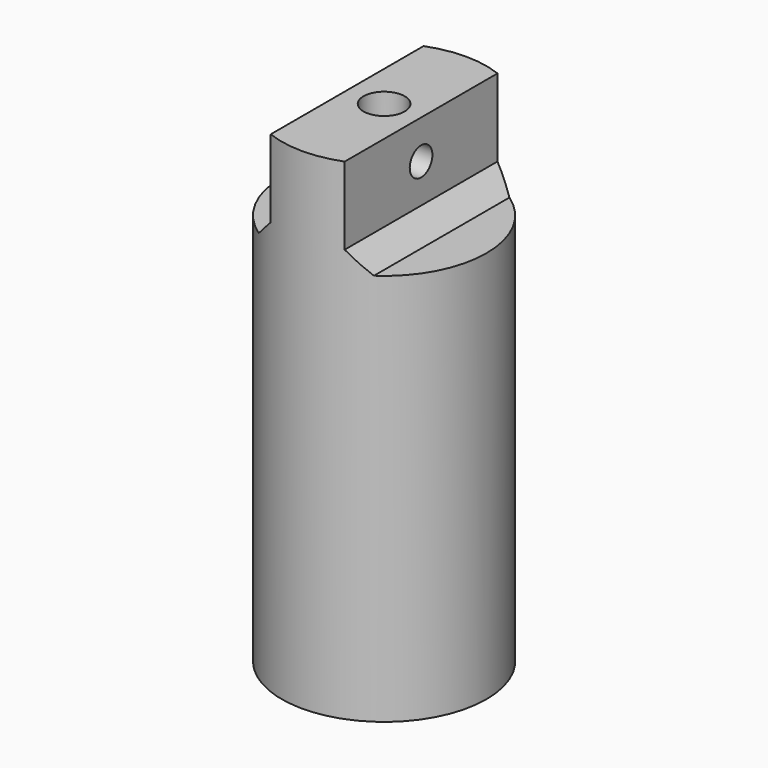
from build123d import *

# Parameters (mm, degrees)
F0_R      = 7.95
F1_DEPTH  = 38.1
F2_R      = 7.2485
F3_DEPTH  = 9.525
F4_R      = 4.7625
F5_DEPTH  = 15.24
F6_R      = 1.6
F7_DEPTH  = 25.4
F8_W      = 5.08
F8_H      = 14.827758
F9_DEPTH  = 7.62
F10_R     = 1.1
F11_DEPTH = 25.4
F12_SIZE  = 1.6


with BuildPart() as f1:
    # F0 (on Top) → F1 (new body)
    with BuildSketch(Plane.XY):
        Circle(F0_R)
    extrude(amount=F1_DEPTH)

    # F2 (on face) → F3 (cut)
    with BuildSketch(Plane(origin=(0, 0, 0), x_dir=(1, 0, 0), z_dir=(0, 0, -1))):
        Circle(F2_R)
    extrude(amount=-F3_DEPTH, mode=Mode.SUBTRACT)

    # F4 (on face) → F5 (cut)
    with BuildSketch(Plane(origin=(0, 0, 9.525), x_dir=(1, 0, 0), z_dir=(0, 0, -1))):
        Circle(F4_R)
    extrude(amount=-F5_DEPTH, mode=Mode.SUBTRACT)

    # F6 (on face) → F7 (cut)
    with BuildSketch(Plane.XY.offset(38.1)):
        Circle(F6_R)
    extrude(amount=-F7_DEPTH, mode=Mode.SUBTRACT)

    # F8 (on face) → F9 (cut)
    with BuildSketch(Plane.XY.offset(38.1)):
        with Locations((-5.41, 0)):
            Rectangle(F8_W, F8_H)
        with Locations((5.41, 0)):
            Rectangle(F8_W, F8_H)
    extrude(amount=-F9_DEPTH, mode=Mode.SUBTRACT)

    # F10 (on face) → F11 (cut)
    with BuildSketch(Plane(origin=(-2.87, 0, 0), x_dir=(0, -1, 0), z_dir=(-1, 0, 0))):
        with Locations((0, 35.1)):
            Circle(F10_R)
    extrude(amount=-F11_DEPTH, mode=Mode.SUBTRACT)

    # F12
    f12_edges = [f1.edges().sort_by_distance(p)[0] for p in [
        (-2.87, 0, 30.48),
        (2.87, 0, 30.48),
    ]]
    chamfer(f12_edges, length=F12_SIZE)


solid = f1.part
